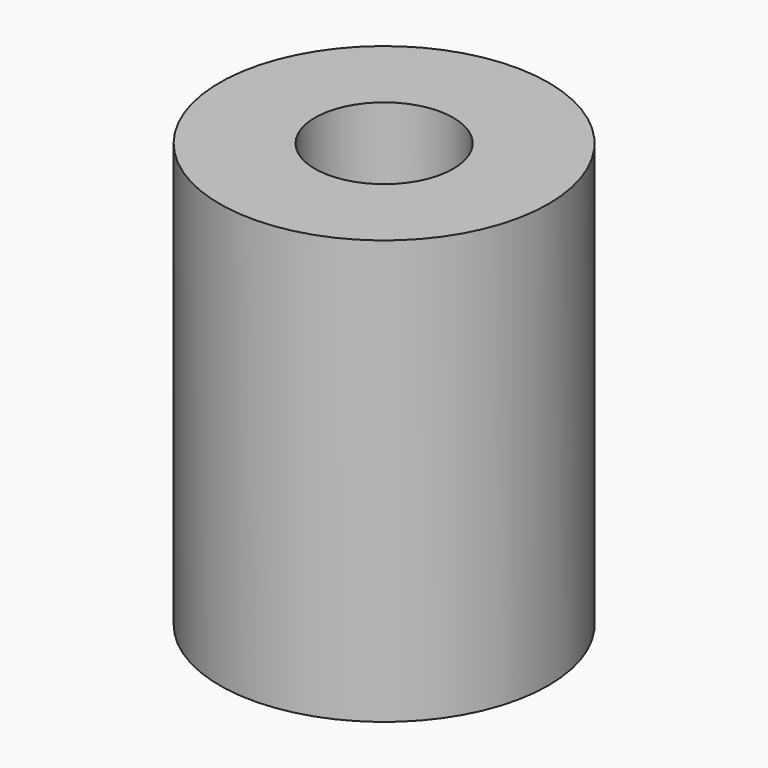
from build123d import *

# Parameters (mm, degrees)
SKETCH_R        = 9.5
PAD_DEPTH       = 24.5
SKETCH001_R     = 2.5
POCKET_DEPTH    = 24.501
SKETCH002_R     = 4
POCKET001_DEPTH = 18


with BuildPart() as part:
    # Sketch → Pad (new body)
    with BuildSketch(Plane.XY):
        Circle(SKETCH_R)
    extrude(amount=PAD_DEPTH)

    # Sketch001 → Pocket (cut, through all)
    with BuildSketch(Plane.XY.offset(24.5)):
        Circle(SKETCH001_R)
    extrude(amount=-POCKET_DEPTH, mode=Mode.SUBTRACT)

    # Sketch002 → Pocket001 (cut)
    with BuildSketch(Plane.XY.offset(24.5)):
        Circle(SKETCH002_R)
    extrude(amount=-POCKET001_DEPTH, mode=Mode.SUBTRACT)


solid = part.part
